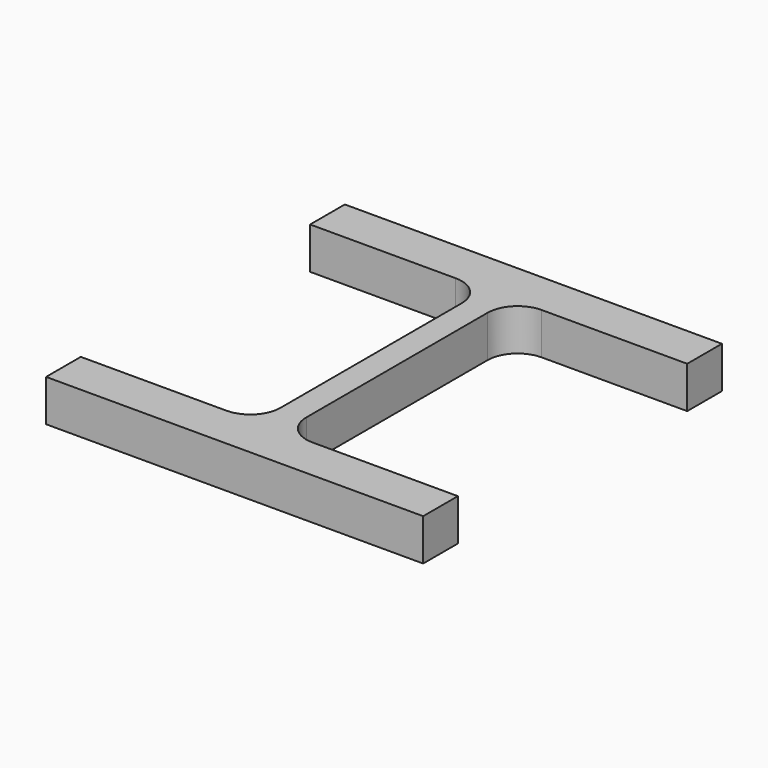
from build123d import *

# Parameters (mm, degrees)
F1_DEPTH = 25


with BuildPart() as f1:
    # F0 (on Top) → F1 (new body)
    with BuildSketch(Plane.XY):
        with BuildLine():
            Line((98.59214, 117.695946), (-127.40786, 117.695946))
            Line((-127.40786, 117.695946), (-127.40786, 91.695946))
            Line((-127.40786, 91.695946), (-40.15786, 91.695946))
            ThreePointArc((-40.15786, 91.695946), (-27.429938, 86.423868), (-22.15786, 73.695946))
            Line((-22.15786, 73.695946), (-22.15786, -62.121805))
            ThreePointArc((-22.15786, -62.121805), (-27.429938, -74.849727), (-40.15786, -80.121805))
            Line((-40.15786, -80.121805), (-127.40786, -80.121805))
            Line((-127.40786, -80.121805), (-127.40786, -106.121805))
            Line((-127.40786, -106.121805), (98.59214, -106.121805))
            Line((98.59214, -106.121805), (98.59214, -80.121805))
            Line((98.59214, -80.121805), (11.34214, -80.121805))
            ThreePointArc((11.34214, -80.121805), (-1.385782, -74.849727), (-6.65786, -62.121805))
            Line((-6.65786, -62.121805), (-6.65786, 73.695946))
            ThreePointArc((-6.65786, 73.695946), (-1.385782, 86.423868), (11.34214, 91.695946))
            Line((11.34214, 91.695946), (98.59214, 91.695946))
            Line((98.59214, 91.695946), (98.59214, 117.695946))
        make_face()
    extrude(amount=F1_DEPTH)


solid = f1.part
